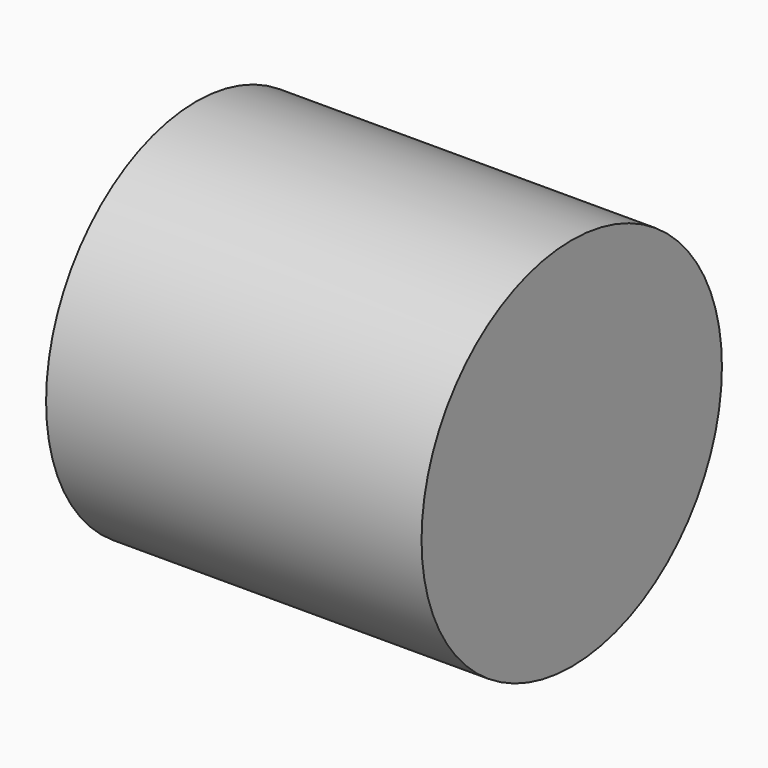
from build123d import *

# Parameters (mm, degrees)
F0_W = 101.6
F0_H = 50.8


with BuildPart() as f1:
    # F0 (on Front) → F1 (revolve)
    with BuildSketch(Plane.XZ):
        Rectangle(F0_W, F0_H)
    revolve(axis=Axis((0, 0, -25.4), (-1, 0, 0)))


solid = f1.part
